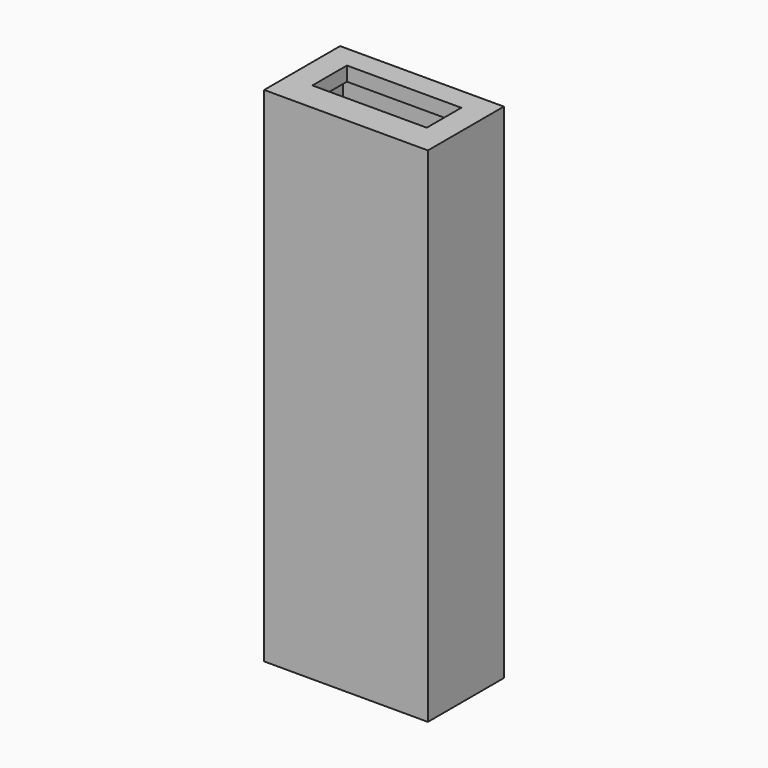
from build123d import *

# Parameters (mm, degrees)
SKETCH_W      = 17.25
SKETCH_H      = 10
PAD_DEPTH     = 1.5
SKETCH001_W   = 17.25
SKETCH001_H   = 10
SKETCH001_W_2 = 14.25
SKETCH001_H_2 = 7
PAD001_DEPTH  = 50
SKETCH002_R   = 6.1
POCKET_DEPTH  = 1.5
SKETCH003_W   = 17.25
SKETCH003_H   = 10
SKETCH003_W_2 = 12.05
SKETCH003_H_2 = 4.55
PAD002_DEPTH  = 1.5


with BuildPart() as part:
    # Sketch → Pad (new body)
    with BuildSketch(Plane.XY):
        Rectangle(SKETCH_W, SKETCH_H)
    extrude(amount=PAD_DEPTH)

    # Sketch001 (on Face6 of Pad) → Pad001 (join)
    with BuildSketch(Plane.XY.offset(1.5)):
        Rectangle(SKETCH001_W, SKETCH001_H)
        Rectangle(SKETCH001_W_2, SKETCH001_H_2, mode=Mode.SUBTRACT)
    extrude(amount=PAD001_DEPTH)

    # Sketch002 (on Face6 of Pad001) → Pocket (cut)
    with BuildSketch(Plane(origin=(0, 5, 0), x_dir=(-1, 0, 0), z_dir=(0, 1, 0))):
        with Locations((0, 7.5)):
            Circle(SKETCH002_R)
    extrude(amount=-POCKET_DEPTH, mode=Mode.SUBTRACT)

    # Sketch003 (on Face11 of Pocket) → Pad002 (join)
    with BuildSketch(Plane.XY.offset(51.5)):
        Rectangle(SKETCH003_W, SKETCH003_H)
        with Locations((0, 0.375)):
            Rectangle(SKETCH003_W_2, SKETCH003_H_2, mode=Mode.SUBTRACT)
    extrude(amount=PAD002_DEPTH)


solid = part.part
